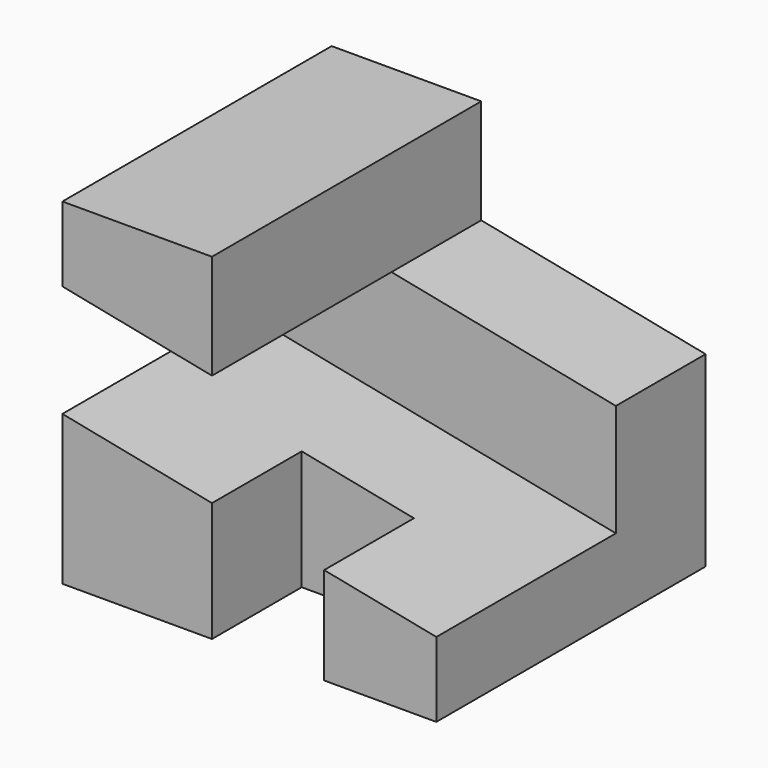
from build123d import *

# Parameters (mm, degrees)
F1_DEPTH = 9
F2_DEPTH = 6
F3_DEPTH = 3


with BuildPart() as f1:
    # F0 (on Front) → F1 (new body)
    with BuildSketch(Plane.XZ):
        Polygon((0, 4), (0, 0), (4, 0), (4, 3.2), align=None)
        Polygon((7, 2.6), (7, 0), (10, 0), (10, 2), align=None)
        Polygon((0, 9), (0, 7), (4, 6.2), (4, 9), align=None)
        Polygon((4, 3.2), (4, 0), (7, 0), (7, 2.6), align=None)
        Polygon((0, 7), (0, 4), (4, 3.2), (7, 2.6), (10, 2), (10, 5), (4, 6.2), align=None)
    extrude(amount=-F1_DEPTH)

    # F0 (on Front) → F2 (cut)
    with BuildSketch(Plane.XZ):
        Polygon((0, 7), (0, 4), (4, 3.2), (7, 2.6), (10, 2), (10, 5), (4, 6.2), align=None)
    extrude(amount=-F2_DEPTH, mode=Mode.SUBTRACT)

    # F0 (on Front) → F3 (cut)
    with BuildSketch(Plane.XZ):
        Polygon((4, 3.2), (4, 0), (7, 0), (7, 2.6), align=None)
    extrude(amount=-F3_DEPTH, mode=Mode.SUBTRACT)


solid = f1.part
